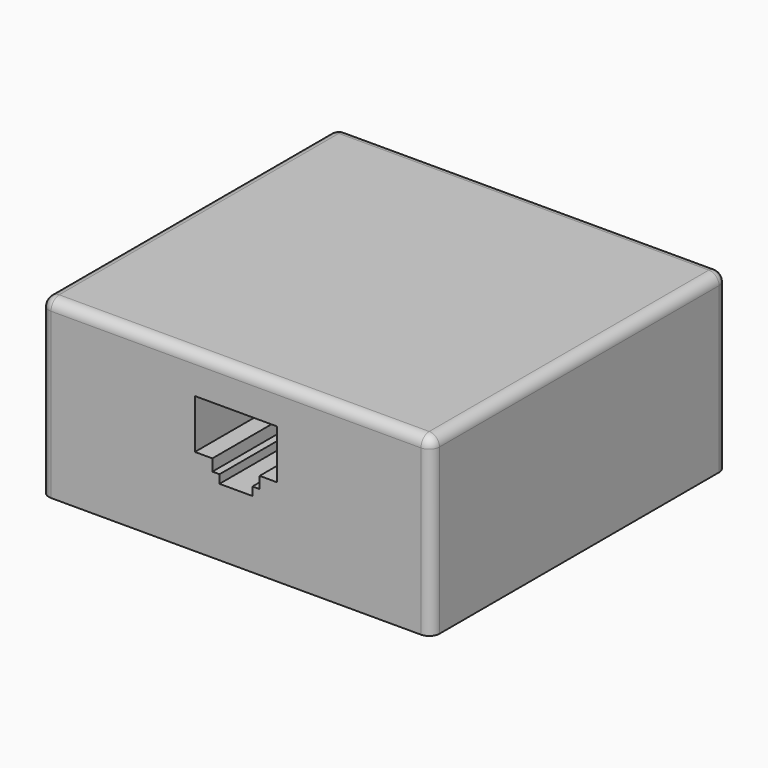
from build123d import *

# Parameters (mm, degrees)
F0_W     = 60.325
F0_H     = 26.9875
F1_DEPTH = 57.15
F2_R     = 1.5875
F3_R     = 0.79375
F4_DEPTH = 12.7


with BuildPart() as f1:
    # F0 (on Front) → F1 (new body)
    with BuildSketch(Plane.XZ):
        with Locations((0, -2.493597)):
            Rectangle(F0_W, F0_H)
        Polygon((-6.35, 5.106403), (6.35, 5.106403), (6.35, -2.493597), (3.65, -2.493597), (3.65, -4.293597), (2.55, -4.293597), (2.55, -5.593597), (-2.55, -5.593597), (-2.55, -4.293597), (-3.65, -4.293597), (-3.65, -2.493597), (-6.35, -2.493597), align=None, mode=Mode.SUBTRACT)
    extrude(amount=F1_DEPTH)

    # F2
    f2_edges = [f1.edges().sort_by_distance(p)[0] for p in [
        (-30.1625, -28.575, 11.000153),
        (0, -57.15, 11.000153),
        (-30.1625, -57.15, -2.493597),
        (-30.1625, 0, -2.493597),
        (0, 0, 11.000153),
        (30.1625, -28.575, 11.000153),
        (30.1625, 0, -2.493597),
        (30.1625, -57.15, -2.493597),
    ]]
    fillet(f2_edges, radius=F2_R)

    # F3 (on face) → F4 (cut)
    with BuildSketch(Plane(origin=(0, 0, -15.987347), x_dir=(1, 0, 0), z_dir=(0, 0, -1))):
        with Locations((23.8252, 31.75)):
            Circle(F3_R)
        with Locations((-23.8252, 31.75)):
            Circle(F3_R)
    extrude(amount=-F4_DEPTH, mode=Mode.SUBTRACT)


solid = f1.part
